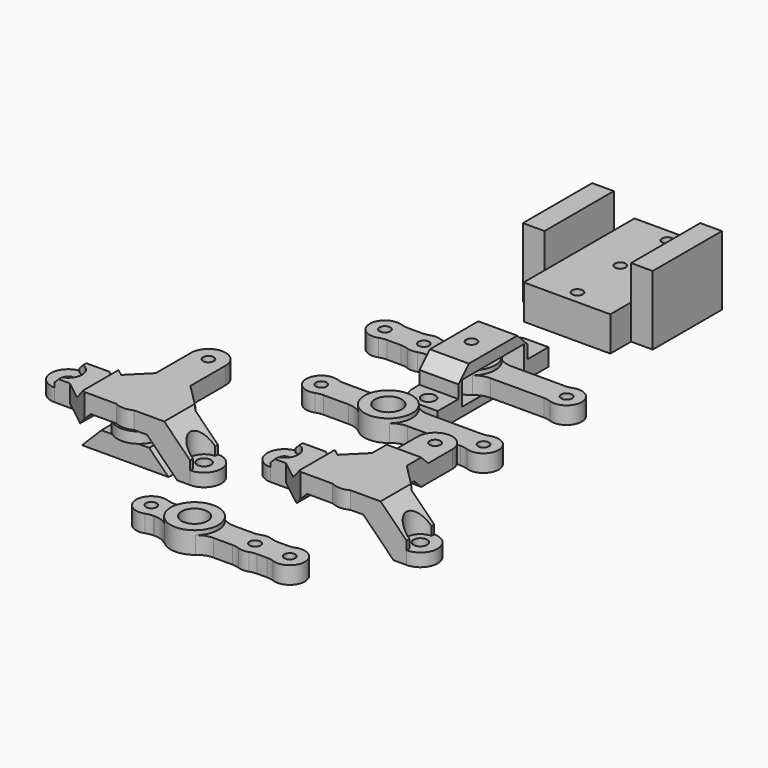
from build123d import *

# Parameters (mm, degrees)
BOX014_W                  = 10
BOX014_H                  = 10
BOX014_DEPTH              = 2.5
CYLINDER011_R             = 5
CYLINDER011_DEPTH         = 2.5
BOX015_W                  = 20
BOX015_H                  = 8
BOX015_DEPTH              = 4.5
CHAMFER001_SIZE           = 4.49
CYLINDER050_R             = 1.25
CYLINDER050_DEPTH         = 4
CYLINDER047_R             = 1.25
CYLINDER047_DEPTH         = 4
CYLINDER048_R             = 1.25
CYLINDER048_DEPTH         = 4
CYLINDER046_R             = 3
CYLINDER046_DEPTH         = 5
BOX040_W                  = 32
BOX040_H                  = 6
BOX040_DEPTH              = 4
CYLINDER045_R             = 3.5
CYLINDER045_DEPTH         = 4
CYLINDER044_R             = 3.5
CYLINDER044_DEPTH         = 4
CYLINDER043_R             = 5.5
CYLINDER043_DEPTH         = 5
CYLINDER049_R             = 3.5
CYLINDER049_DEPTH         = 4
FILLET_R                  = 5
CYLINDER054_R             = 1.25
CYLINDER054_DEPTH         = 10
CYLINDER055_R             = 1.25
CYLINDER055_DEPTH         = 10
CYLINDER053_R             = 1.25
CYLINDER053_DEPTH         = 10
BOX047_W                  = 32
BOX047_H                  = 20
BOX047_DEPTH              = 8
BOX046_W                  = 20
BOX046_H                  = 5
BOX046_DEPTH              = 16
BOX045_W                  = 20
BOX045_H                  = 5
BOX045_DEPTH              = 16
FUSION040_PLACEMENT_ANGLE = 90
BOX044_W                  = 6
BOX044_H                  = 6
BOX044_DEPTH              = 4
CYLINDER042_R             = 1.25
CYLINDER042_DEPTH         = 4
CYLINDER033_R             = 1.25
CYLINDER033_DEPTH         = 4
CYLINDER034_R             = 1.25
CYLINDER034_DEPTH         = 4
CYLINDER032_R             = 3
CYLINDER032_DEPTH         = 5
BOX038_W                  = 33
BOX038_H                  = 6
BOX038_DEPTH              = 4
CYLINDER031_R             = 3.5
CYLINDER031_DEPTH         = 4
CYLINDER030_R             = 3.5
CYLINDER030_DEPTH         = 4
CYLINDER029_R             = 5.5
CYLINDER029_DEPTH         = 5
CYLINDER041_R             = 3.5
CYLINDER041_DEPTH         = 4
FILLET003_R               = 5
CYLINDER039_R             = 1.25
CYLINDER039_DEPTH         = 4
CYLINDER040_R             = 1.25
CYLINDER040_DEPTH         = 4
CYLINDER038_R             = 3.1
CYLINDER038_DEPTH         = 5
BOX039_W                  = 38
BOX039_H                  = 6
BOX039_DEPTH              = 4
CYLINDER037_R             = 3.5
CYLINDER037_DEPTH         = 4
CYLINDER036_R             = 3.5
CYLINDER036_DEPTH         = 4
CYLINDER035_R             = 5.5
CYLINDER035_DEPTH         = 5
FILLET004_R               = 5
CYLINDER060_R             = 1.25
CYLINDER060_DEPTH         = 3
CYLINDER057_R             = 1.25
CYLINDER057_DEPTH         = 4
CYLINDER056_R             = 4
CYLINDER056_DEPTH         = 4
BOX_W                     = 10
BOX_H                     = 10
BOX_DEPTH                 = 10
CYLINDER_R                = 1.6
CYLINDER_DEPTH            = 4
CYLINDER027_R             = 4
CYLINDER027_DEPTH         = 4
BOX037_W                  = 10
BOX037_H                  = 10
BOX037_DEPTH              = 10
CYLINDER022_R             = 1.6
CYLINDER022_DEPTH         = 10
BOX036_W                  = 6
BOX036_H                  = 8
BOX036_DEPTH              = 1
CYLINDER026_R             = 3.2
CYLINDER026_DEPTH         = 10
BOX035_W                  = 10
BOX035_H                  = 15
BOX035_DEPTH              = 10
CYLINDER025_R             = 1.6
CYLINDER025_DEPTH         = 10
CYLINDER021_R             = 1.6
CYLINDER021_DEPTH         = 10
BOX033_W                  = 10
BOX033_H                  = 10
BOX033_DEPTH              = 8
BOX033_PLACEMENT_ANGLE    = 45
CYLINDER024_R             = 3.2
CYLINDER024_DEPTH         = 10
BOX032_W                  = 10
BOX032_H                  = 8
BOX032_DEPTH              = 11
CHAMFER012_SIZE           = 7
CHAMFER013_SIZE           = 6
CYLINDER020_R             = 3.2
CYLINDER020_DEPTH         = 2
BOX021_W                  = 8
BOX021_H                  = 27
BOX021_DEPTH              = 4
BOX029_W                  = 10
BOX029_H                  = 10
BOX029_DEPTH              = 4
BOX028_W                  = 14
BOX028_H                  = 14
BOX028_DEPTH              = 4
BOX028_PLACEMENT_ANGLE    = 45
BOX027_W                  = 10
BOX027_H                  = 10
BOX027_DEPTH              = 4
BOX026_W                  = 10
BOX026_H                  = 10
BOX026_DEPTH              = 4
BOX024_W                  = 15
BOX024_H                  = 8
BOX024_DEPTH              = 4
BOX024_PLACEMENT_ANGLE    = 38
BOX025_W                  = 9
BOX025_H                  = 8
BOX025_DEPTH              = 4
BOX023_W                  = 6
BOX023_H                  = 8
BOX023_DEPTH              = 4
CYLINDER019_R             = 4
CYLINDER019_DEPTH         = 4
CYLINDER018_R             = 4.5
CYLINDER018_DEPTH         = 4
BOX022_W                  = 11
BOX022_H                  = 8
BOX022_DEPTH              = 4
CHAMFER014_SIZE           = 2
CYLINDER016_R             = 4
CYLINDER016_DEPTH         = 3
CHAMFER016_SIZE           = 3.99
BOX034_W                  = 10
BOX034_H                  = 11
BOX034_DEPTH              = 10
CHAMFER015_SIZE           = 3.99
CYLINDER017_R             = 4
CYLINDER017_DEPTH         = 3
CHAMFER017_SIZE           = 1
CHAMFER018_SIZE           = 0.99
CHAMFER019_SIZE           = 1
CYLINDER058_R             = 2
CYLINDER058_DEPTH         = 3
CYLINDER064_R             = 1.25
CYLINDER064_DEPTH         = 3
CYLINDER063_R             = 2
CYLINDER063_DEPTH         = 3
CYLINDER062_R             = 1.25
CYLINDER062_DEPTH         = 4
BOX048_W                  = 8
BOX048_H                  = 11
BOX048_DEPTH              = 2
CYLINDER061_R             = 4
CYLINDER061_DEPTH         = 4
BOX049_W                  = 8
BOX049_H                  = 13
BOX049_DEPTH              = 2
CYLINDER028_R             = 1.6
CYLINDER028_DEPTH         = 4
CHAMFER021_SIZE           = 1.99
CHAMFER022_SIZE           = 1.99
CYLINDER052_R             = 1.6
CYLINDER052_DEPTH         = 10
BOX043_W                  = 9
BOX043_H                  = 6
BOX043_DEPTH              = 4
FILLET002_R               = 4
FILLET001_R               = 4
CYLINDER051_R             = 1.25
CYLINDER051_DEPTH         = 12
BOX042_W                  = 12
BOX042_H                  = 12
BOX042_DEPTH              = 5.5
BOX041_W                  = 9
BOX041_H                  = 20
BOX041_DEPTH              = 10
CHAMFER_SIZE              = 3
CHAMFER020_SIZE           = 3


with BuildPart() as cube014:
    # Box014 → Box014 (new body)
    with BuildSketch(Plane(origin=(-20, 0, 5.5), x_dir=(1, 0, 0), z_dir=(0, 0, 1))):
        with Locations((5, 5)):
            Rectangle(BOX014_W, BOX014_H)
    extrude(amount=BOX014_DEPTH)


with BuildPart() as fusion006:
    # Cylinder011 → Cylinder011 (new body)
    with BuildSketch(Plane(origin=(-15, 0, 5.5), x_dir=(1, 0, 0), z_dir=(0, 0, 1))):
        Circle(CYLINDER011_R)
    extrude(amount=CYLINDER011_DEPTH)

    # Fusion006: union Cube014
    add(cube014.part)


with BuildPart() as axle:
    # Box015 → Box015 (new body)
    with BuildSketch(Plane(origin=(-25, -4, 1), x_dir=(1, 0, 0), z_dir=(0, 0, 1))):
        with Locations((10, 4)):
            Rectangle(BOX015_W, BOX015_H)
    extrude(amount=BOX015_DEPTH)

    # Chamfer001
    chamfer001_edges = [axle.edges().sort_by_distance(p)[0] for p in [
        (-25, 0, 5.5),
        (-5, 0, 5.5),
    ]]
    chamfer(chamfer001_edges, length=CHAMFER001_SIZE)

    # Fusion008: union Fusion006
    add(fusion006.part)


with BuildPart() as cylinder050:
    # Cylinder050 → Cylinder050 (new body)
    with BuildSketch(Plane(origin=(27, 0, 0), x_dir=(1, 0, 0), z_dir=(0, 0, 1))):
        Circle(CYLINDER050_R)
    extrude(amount=CYLINDER050_DEPTH)


with BuildPart() as cylinder047:
    # Cylinder047 → Cylinder047 (new body)
    with BuildSketch(Plane(origin=(3, 0, 0), x_dir=(1, 0, 0), z_dir=(0, 0, 1))):
        Circle(CYLINDER047_R)
    extrude(amount=CYLINDER047_DEPTH)


with BuildPart() as cylinder048:
    # Cylinder048 → Cylinder048 (new body)
    with BuildSketch(Plane(origin=(35, 0, 0), x_dir=(1, 0, 0), z_dir=(0, 0, 1))):
        Circle(CYLINDER048_R)
    extrude(amount=CYLINDER048_DEPTH)


with BuildPart() as fusion035:
    # Cylinder046 → Cylinder046 (new body)
    with BuildSketch(Plane(origin=(13, 0, 0), x_dir=(1, 0, 0), z_dir=(0, 0, 1))):
        Circle(CYLINDER046_R)
    extrude(amount=CYLINDER046_DEPTH)

    # Fusion035: union Cylinder047, Cylinder048
    add(cylinder047.part)
    add(cylinder048.part)


with BuildPart() as box040:
    # Box040 → Box040 (new body)
    with BuildSketch(Plane(origin=(3, -3, 0), x_dir=(1, 0, 0), z_dir=(0, 0, 1))):
        with Locations((16, 3)):
            Rectangle(BOX040_W, BOX040_H)
    extrude(amount=BOX040_DEPTH)


with BuildPart() as cylinder045:
    # Cylinder045 → Cylinder045 (new body)
    with BuildSketch(Plane(origin=(3, 0, 0), x_dir=(1, 0, 0), z_dir=(0, 0, 1))):
        Circle(CYLINDER045_R)
    extrude(amount=CYLINDER045_DEPTH)


with BuildPart() as cylinder044:
    # Cylinder044 → Cylinder044 (new body)
    with BuildSketch(Plane(origin=(35, 0, 0), x_dir=(1, 0, 0), z_dir=(0, 0, 1))):
        Circle(CYLINDER044_R)
    extrude(amount=CYLINDER044_DEPTH)


with BuildPart() as cut027:
    # Cylinder043 → Cylinder043 (new body)
    with BuildSketch(Plane(origin=(13, 0, 0), x_dir=(1, 0, 0), z_dir=(0, 0, 1))):
        Circle(CYLINDER043_R)
    extrude(amount=CYLINDER043_DEPTH)

    # Fusion034: union Box040, Cylinder045, Cylinder044
    add(box040.part)
    add(cylinder045.part)
    add(cylinder044.part)

    # Cut027: cut Fusion035
    add(fusion035.part, mode=Mode.SUBTRACT)


with BuildPart() as fillet_body:
    # Cylinder049 → Cylinder049 (new body)
    with BuildSketch(Plane(origin=(27, 0, 0), x_dir=(1, 0, 0), z_dir=(0, 0, 1))):
        Circle(CYLINDER049_R)
    extrude(amount=CYLINDER049_DEPTH)

    # Fusion036: union Cut027
    add(cut027.part)

    # Cut028: cut Cylinder050
    add(cylinder050.part, mode=Mode.SUBTRACT)


with BuildPart() as fillet_body_1:
    # Cut028 placement: moved
    add(fillet_body.part.moved(Location((0, -19, 0))))

    # Fillet
    fillet_edges = [fillet_body_1.edges().sort_by_distance(p)[0] for p in [
        (8.390228, -22, 2),
        (8.390228, -16, 2),
        (17.609772, -16, 2),
        (17.609772, -22, 2),
        (4.802776, -22, 2),
        (4.802776, -16, 2),
        (25.197224, -16, 2),
        (25.197224, -22, 2),
        (28.802776, -22, 2),
        (33.197224, -22, 2),
        (33.197224, -16, 2),
        (28.802776, -16, 2),
    ]]
    fillet(fillet_edges, radius=FILLET_R)


with BuildPart() as cylinder054:
    # Cylinder054 → Cylinder054 (new body)
    with BuildSketch(Plane(origin=(13.5, -13, -3), x_dir=(1, 0, 0), z_dir=(0, 0, 1))):
        Circle(CYLINDER054_R)
    extrude(amount=CYLINDER054_DEPTH)


with BuildPart() as cylinder055:
    # Cylinder055 → Cylinder055 (new body)
    with BuildSketch(Plane(origin=(13.5, 13, -3), x_dir=(1, 0, 0), z_dir=(0, 0, 1))):
        Circle(CYLINDER055_R)
    extrude(amount=CYLINDER055_DEPTH)


with BuildPart() as fusion041:
    # Cylinder053 → Cylinder053 (new body)
    with BuildSketch(Plane(origin=(13, 0, -3), x_dir=(1, 0, 0), z_dir=(0, 0, 1))):
        Circle(CYLINDER053_R)
    extrude(amount=CYLINDER053_DEPTH)

    # Fusion041: union Cylinder054, Cylinder055
    add(cylinder054.part)
    add(cylinder055.part)


with BuildPart() as box047:
    # Box047 → Box047 (new body)
    with BuildSketch(Plane(origin=(-16, 19.5, 0), x_dir=(1, 0, 0), z_dir=(0, 0, 1))):
        with Locations((16, 10)):
            Rectangle(BOX047_W, BOX047_H)
    extrude(amount=BOX047_DEPTH)


with BuildPart() as box046:
    # Box046 → Box046 (new body)
    with BuildSketch(Plane(origin=(-10, 39.5, 0), x_dir=(1, 0, 0), z_dir=(0, 0, 1))):
        with Locations((10, 2.5)):
            Rectangle(BOX046_W, BOX046_H)
    extrude(amount=BOX046_DEPTH)


with BuildPart() as steering_lever_holder_holes_tool:
    # Box045 → Box045 (new body)
    with BuildSketch(Plane(origin=(-10, 14.5, 0), x_dir=(1, 0, 0), z_dir=(0, 0, 1))):
        with Locations((10, 2.5)):
            Rectangle(BOX045_W, BOX045_H)
    extrude(amount=BOX045_DEPTH)

    # Fusion040: union Box047, Box046
    add(box047.part)
    add(box046.part)


with BuildPart() as steering_lever_holder_holes_tool_1:
    # Fusion040 placement: moved
    add(steering_lever_holder_holes_tool.part.moved(Location((43, 0, -2))).rotate(Axis((43, 0, -2), (0, 0, 1)), FUSION040_PLACEMENT_ANGLE))

    # Cut034: cut Fusion041
    add(fusion041.part, mode=Mode.SUBTRACT)


with BuildPart() as steering_lever_holder_holes_tool_2:
    # Cut034 placement: moved
    add(steering_lever_holder_holes_tool_1.part.moved(Location((0, 104, 0))))


with BuildPart() as box044:
    # Box044 → Box044 (new body)
    with BuildSketch(Plane(origin=(-5.5, -3, 0), x_dir=(1, 0, 0), z_dir=(0, 0, 1))):
        with Locations((3, 3)):
            Rectangle(BOX044_W, BOX044_H)
    extrude(amount=BOX044_DEPTH)


with BuildPart() as cylinder042:
    # Cylinder042 → Cylinder042 (new body)
    with BuildSketch(Plane(origin=(-7, 0, 0), x_dir=(1, 0, 0), z_dir=(0, 0, 1))):
        Circle(CYLINDER042_R)
    extrude(amount=CYLINDER042_DEPTH)


with BuildPart() as cylinder033:
    # Cylinder033 → Cylinder033 (new body)
    with BuildSketch(Plane(origin=(2, 0, 0), x_dir=(1, 0, 0), z_dir=(0, 0, 1))):
        Circle(CYLINDER033_R)
    extrude(amount=CYLINDER033_DEPTH)


with BuildPart() as cylinder034:
    # Cylinder034 → Cylinder034 (new body)
    with BuildSketch(Plane(origin=(35, 0, 0), x_dir=(1, 0, 0), z_dir=(0, 0, 1))):
        Circle(CYLINDER034_R)
    extrude(amount=CYLINDER034_DEPTH)


with BuildPart() as fusion031:
    # Cylinder032 → Cylinder032 (new body)
    with BuildSketch(Plane(origin=(13, 0, 0), x_dir=(1, 0, 0), z_dir=(0, 0, 1))):
        Circle(CYLINDER032_R)
    extrude(amount=CYLINDER032_DEPTH)

    # Fusion031: union Cylinder033, Cylinder034
    add(cylinder033.part)
    add(cylinder034.part)


with BuildPart() as box038:
    # Box038 → Box038 (new body)
    with BuildSketch(Plane(origin=(2, -3, 0), x_dir=(1, 0, 0), z_dir=(0, 0, 1))):
        with Locations((16.5, 3)):
            Rectangle(BOX038_W, BOX038_H)
    extrude(amount=BOX038_DEPTH)


with BuildPart() as cylinder031:
    # Cylinder031 → Cylinder031 (new body)
    with BuildSketch(Plane(origin=(2, 0, 0), x_dir=(1, 0, 0), z_dir=(0, 0, 1))):
        Circle(CYLINDER031_R)
    extrude(amount=CYLINDER031_DEPTH)


with BuildPart() as cylinder030:
    # Cylinder030 → Cylinder030 (new body)
    with BuildSketch(Plane(origin=(35, 0, 0), x_dir=(1, 0, 0), z_dir=(0, 0, 1))):
        Circle(CYLINDER030_R)
    extrude(amount=CYLINDER030_DEPTH)


with BuildPart() as cut025:
    # Cylinder029 → Cylinder029 (new body)
    with BuildSketch(Plane(origin=(13, 0, 0), x_dir=(1, 0, 0), z_dir=(0, 0, 1))):
        Circle(CYLINDER029_R)
    extrude(amount=CYLINDER029_DEPTH)

    # Fusion030: union Box038, Cylinder031, Cylinder030
    add(box038.part)
    add(cylinder031.part)
    add(cylinder030.part)

    # Cut025: cut Fusion031
    add(fusion031.part, mode=Mode.SUBTRACT)


with BuildPart() as steering_lever_front:
    # Cylinder041 → Cylinder041 (new body)
    with BuildSketch(Plane(origin=(-7, 0, 0), x_dir=(1, 0, 0), z_dir=(0, 0, 1))):
        Circle(CYLINDER041_R)
    extrude(amount=CYLINDER041_DEPTH)

    # Fusion037: union Cut025
    add(cut025.part)

    # Cut029: cut Cylinder042
    add(cylinder042.part, mode=Mode.SUBTRACT)

    # Fusion039: union Box044
    add(box044.part)

    # Fillet003
    fillet003_edges = [steering_lever_front.edges().sort_by_distance(p)[0] for p in [
        (-5.197224, -3, 2),
        (-5.197224, 3, 2),
        (0.197224, -3, 2),
        (0.197224, 3, 2),
        (3.802776, -3, 2),
        (3.802776, 3, 2),
        (8.390228, -3, 2),
        (8.390228, 3, 2),
        (17.609772, 3, 2),
        (17.609772, -3, 2),
        (33.197224, -3, 2),
        (33.197224, 3, 2),
    ]]
    fillet(fillet003_edges, radius=FILLET003_R)


with BuildPart() as steering_lever_front_1:
    # Fillet003 placement: moved
    add(steering_lever_front.part.moved(Location((0, 61, 0))))


with BuildPart() as cylinder039:
    # Cylinder039 → Cylinder039 (new body)
    with BuildSketch(Plane(origin=(-2.5, 0, 0), x_dir=(1, 0, 0), z_dir=(0, 0, 1))):
        Circle(CYLINDER039_R)
    extrude(amount=CYLINDER039_DEPTH)


with BuildPart() as cylinder040:
    # Cylinder040 → Cylinder040 (new body)
    with BuildSketch(Plane(origin=(35, 0, 0), x_dir=(1, 0, 0), z_dir=(0, 0, 1))):
        Circle(CYLINDER040_R)
    extrude(amount=CYLINDER040_DEPTH)


with BuildPart() as fusion033:
    # Cylinder038 → Cylinder038 (new body)
    with BuildSketch(Plane(origin=(13, 0, 0), x_dir=(1, 0, 0), z_dir=(0, 0, 1))):
        Circle(CYLINDER038_R)
    extrude(amount=CYLINDER038_DEPTH)

    # Fusion033: union Cylinder039, Cylinder040
    add(cylinder039.part)
    add(cylinder040.part)


with BuildPart() as box039:
    # Box039 → Box039 (new body)
    with BuildSketch(Plane(origin=(-3, -3, 0), x_dir=(1, 0, 0), z_dir=(0, 0, 1))):
        with Locations((19, 3)):
            Rectangle(BOX039_W, BOX039_H)
    extrude(amount=BOX039_DEPTH)


with BuildPart() as cylinder037:
    # Cylinder037 → Cylinder037 (new body)
    with BuildSketch(Plane(origin=(-2.5, 0, 0), x_dir=(1, 0, 0), z_dir=(0, 0, 1))):
        Circle(CYLINDER037_R)
    extrude(amount=CYLINDER037_DEPTH)


with BuildPart() as cylinder036:
    # Cylinder036 → Cylinder036 (new body)
    with BuildSketch(Plane(origin=(35, 0, 0), x_dir=(1, 0, 0), z_dir=(0, 0, 1))):
        Circle(CYLINDER036_R)
    extrude(amount=CYLINDER036_DEPTH)


with BuildPart() as steering_lever_rear:
    # Cylinder035 → Cylinder035 (new body)
    with BuildSketch(Plane(origin=(13, 0, 0), x_dir=(1, 0, 0), z_dir=(0, 0, 1))):
        Circle(CYLINDER035_R)
    extrude(amount=CYLINDER035_DEPTH)

    # Fusion032: union Box039, Cylinder037, Cylinder036
    add(box039.part)
    add(cylinder037.part)
    add(cylinder036.part)

    # Cut026: cut Fusion033
    add(fusion033.part, mode=Mode.SUBTRACT)


with BuildPart() as steering_lever_rear_1:
    # Cut026 placement: moved
    add(steering_lever_rear.part.moved(Location((0, 25, 0))))

    # Fillet004
    fillet004_edges = [steering_lever_rear_1.edges().sort_by_distance(p)[0] for p in [
        (17.609772, 22, 2),
        (8.390228, 22, 2),
        (8.390228, 28, 2),
        (17.609772, 28, 2),
        (33.197224, 22, 2),
        (-0.697224, 22, 2),
        (-0.697224, 28, 2),
        (33.197224, 28, 2),
    ]]
    fillet(fillet004_edges, radius=FILLET004_R)


with BuildPart() as steering_lever_rear_2:
    # Fillet004 placement: moved
    add(steering_lever_rear_1.part.moved(Location((0, 12, 0))))


with BuildPart() as cylinder060:
    # Cylinder060 → Cylinder060 (new body)
    with BuildSketch(Plane(origin=(-37, 7, 3), x_dir=(1, 0, 0), z_dir=(0, 0, 1))):
        Circle(CYLINDER060_R)
    extrude(amount=CYLINDER060_DEPTH)


with BuildPart() as cylinder057:
    # Cylinder057 → Cylinder057 (new body)
    with BuildSketch(Plane(origin=(-15, 20, 8), x_dir=(1, 0, 0), z_dir=(0, 0, 1))):
        Circle(CYLINDER057_R)
    extrude(amount=CYLINDER057_DEPTH)


with BuildPart() as cylinder056:
    # Cylinder056 → Cylinder056 (new body)
    with BuildSketch(Plane(origin=(-15, 20, 8), x_dir=(1, 0, 0), z_dir=(0, 0, 1))):
        Circle(CYLINDER056_R)
    extrude(amount=CYLINDER056_DEPTH)


with BuildPart() as cube:
    # Box → Box (new body)
    with BuildSketch(Plane(origin=(-20, 20, 2), x_dir=(1, 0, 0), z_dir=(0, 0, 1))):
        with Locations((5, 5)):
            Rectangle(BOX_W, BOX_H)
    extrude(amount=BOX_DEPTH)


with BuildPart() as cylinder:
    # Cylinder → Cylinder (new body)
    with BuildSketch(Plane(origin=(-15, 23, 8), x_dir=(1, 0, 0), z_dir=(0, 0, 1))):
        Circle(CYLINDER_R)
    extrude(amount=CYLINDER_DEPTH)


with BuildPart() as cylinder027:
    # Cylinder027 → Cylinder027 (new body)
    with BuildSketch(Plane(origin=(-15, 23, 8), x_dir=(1, 0, 0), z_dir=(0, 0, 1))):
        Circle(CYLINDER027_R)
    extrude(amount=CYLINDER027_DEPTH)


with BuildPart() as cube037:
    # Box037 → Box037 (new body)
    with BuildSketch(Plane(origin=(-19, 23, 3), x_dir=(1, 0, 0), z_dir=(0, 0, 1))):
        with Locations((5, 5)):
            Rectangle(BOX037_W, BOX037_H)
    extrude(amount=BOX037_DEPTH)


with BuildPart() as cylinder022:
    # Cylinder022 → Cylinder022 (new body)
    with BuildSketch(Plane(origin=(-37, 7, 2), x_dir=(1, 0, 0), z_dir=(0, 0, 1))):
        Circle(CYLINDER022_R)
    extrude(amount=CYLINDER022_DEPTH)


with BuildPart() as cube036:
    # Box036 → Box036 (new body)
    with BuildSketch(Plane(origin=(-37, 3, 3), x_dir=(1, 0, 0), z_dir=(0, 0, 1))):
        with Locations((3, 4)):
            Rectangle(BOX036_W, BOX036_H)
    extrude(amount=BOX036_DEPTH)


with BuildPart() as cylinder026:
    # Cylinder026 → Cylinder026 (new body)
    with BuildSketch(Plane(origin=(-37, 7, 6), x_dir=(1, 0, 0), z_dir=(0, 0, 1))):
        Circle(CYLINDER026_R)
    extrude(amount=CYLINDER026_DEPTH)


with BuildPart() as cube035:
    # Box035 → Box035 (new body)
    with BuildSketch(Plane(origin=(-39, -2, 8), x_dir=(1, 0, 0), z_dir=(0, 0, 1))):
        with Locations((5, 7.5)):
            Rectangle(BOX035_W, BOX035_H)
    extrude(amount=BOX035_DEPTH)


with BuildPart() as cylinder025:
    # Cylinder025 → Cylinder025 (new body)
    with BuildSketch(Plane(origin=(-15, 27, 4), x_dir=(1, 0, 0), z_dir=(0, 0, 1))):
        Circle(CYLINDER025_R)
    extrude(amount=CYLINDER025_DEPTH)


with BuildPart() as fusion023:
    # Cylinder021 → Cylinder021 (new body)
    with BuildSketch(Plane.XY):
        Circle(CYLINDER021_R)
    extrude(amount=CYLINDER021_DEPTH)

    # Fusion023: union Cylinder025
    add(cylinder025.part)


with BuildPart() as cube033:
    # Box033 → Box033 (new body)
    with BuildSketch(Plane.XY):
        with Locations((5, 5)):
            Rectangle(BOX033_W, BOX033_H)
    extrude(amount=BOX033_DEPTH)


with BuildPart() as cube033_1:
    # Box033 placement: moved
    add(cube033.part.moved(Location((-10.2, -1, 0))).rotate(Axis((-10.2, -1, 0), (0, 0, 1)), BOX033_PLACEMENT_ANGLE))


with BuildPart() as cylinder024:
    # Cylinder024 → Cylinder024 (new body)
    with BuildSketch(Plane.XY.offset(4)):
        Circle(CYLINDER024_R)
    extrude(amount=CYLINDER024_DEPTH)


with BuildPart() as chamfer013:
    # Box032 → Box032 (new body)
    with BuildSketch(Plane(origin=(-10, -4, 1), x_dir=(1, 0, 0), z_dir=(0, 0, 1))):
        with Locations((5, 4)):
            Rectangle(BOX032_W, BOX032_H)
    extrude(amount=BOX032_DEPTH)

    # Chamfer012
    chamfer012_edges = [chamfer013.edges().sort_by_distance(p)[0] for p in [
        (-10, 0, 1),
    ]]
    chamfer(chamfer012_edges, length=CHAMFER012_SIZE)

    # Chamfer013
    chamfer013_edges = [chamfer013.edges().sort_by_distance(p)[0] for p in [
        (0, 0, 12),
    ]]
    chamfer(chamfer013_edges, length=CHAMFER013_SIZE)


with BuildPart() as cylinder020:
    # Cylinder020 → Cylinder020 (new body)
    with BuildSketch(Plane(origin=(-15, 0, 8), x_dir=(1, 0, 0), z_dir=(0, 0, 1))):
        Circle(CYLINDER020_R)
    extrude(amount=CYLINDER020_DEPTH)


with BuildPart() as cube021:
    # Box021 → Box021 (new body)
    with BuildSketch(Plane(origin=(-19, 0, 8), x_dir=(1, 0, 0), z_dir=(0, 0, 1))):
        with Locations((4, 13.5)):
            Rectangle(BOX021_W, BOX021_H)
    extrude(amount=BOX021_DEPTH)


with BuildPart() as cube029:
    # Box029 → Box029 (new body)
    with BuildSketch(Plane(origin=(-20, -14, 8), x_dir=(1, 0, 0), z_dir=(0, 0, 1))):
        with Locations((5, 5)):
            Rectangle(BOX029_W, BOX029_H)
    extrude(amount=BOX029_DEPTH)


with BuildPart() as cut013:
    # Box028 → Box028 (new body)
    with BuildSketch(Plane.XY):
        with Locations((7, 7)):
            Rectangle(BOX028_W, BOX028_H)
    extrude(amount=BOX028_DEPTH)


with BuildPart() as cut013_1:
    # Box028 placement: moved
    add(cut013.part.moved(Location((-15, -6, 8))).rotate(Axis((-15, -6, 8), (0, 0, 1)), BOX028_PLACEMENT_ANGLE))

    # Cut013: cut Cube029
    add(cube029.part, mode=Mode.SUBTRACT)


with BuildPart() as cube027:
    # Box027 → Box027 (new body)
    with BuildSketch(Plane(origin=(-35, 11, 8), x_dir=(1, 0, 0), z_dir=(0, 0, 1))):
        with Locations((5, 5)):
            Rectangle(BOX027_W, BOX027_H)
    extrude(amount=BOX027_DEPTH)


with BuildPart() as cube026:
    # Box026 → Box026 (new body)
    with BuildSketch(Plane(origin=(-30, -14, 8), x_dir=(1, 0, 0), z_dir=(0, 0, 1))):
        with Locations((5, 5)):
            Rectangle(BOX026_W, BOX026_H)
    extrude(amount=BOX026_DEPTH)


with BuildPart() as fusion016:
    # Fusion016 base: copy of Cube026
    add(cube026.part)

    # Fusion016: union Cube027
    add(cube027.part)


with BuildPart() as cube024:
    # Box024 → Box024 (new body)
    with BuildSketch(Plane.XY):
        with Locations((7.5, 4)):
            Rectangle(BOX024_W, BOX024_H)
    extrude(amount=BOX024_DEPTH)


with BuildPart() as cube024_1:
    # Box024 placement: moved
    add(cube024.part.moved(Location((-36, 5, 8))).rotate(Axis((-36, 5, 8), (0, 0, -1)), BOX024_PLACEMENT_ANGLE))


with BuildPart() as cube025:
    # Box025 → Box025 (new body)
    with BuildSketch(Plane(origin=(-24, -4, 8), x_dir=(1, 0, 0), z_dir=(0, 0, 1))):
        with Locations((4.5, 4)):
            Rectangle(BOX025_W, BOX025_H)
    extrude(amount=BOX025_DEPTH)


with BuildPart() as cube023:
    # Box023 → Box023 (new body)
    with BuildSketch(Plane(origin=(-37, 3, 8), x_dir=(1, 0, 0), z_dir=(0, 0, 1))):
        with Locations((3, 4)):
            Rectangle(BOX023_W, BOX023_H)
    extrude(amount=BOX023_DEPTH)


with BuildPart() as cut012:
    # Fusion017 base: copy of Cube023
    add(cube023.part)

    # Fusion017: union Cube024, Cube025
    add(cube024_1.part)
    add(cube025.part)

    # Cut012: cut Fusion016
    add(fusion016.part, mode=Mode.SUBTRACT)


with BuildPart() as cylinder019:
    # Cylinder019 → Cylinder019 (new body)
    with BuildSketch(Plane(origin=(-15, 27, 8), x_dir=(1, 0, 0), z_dir=(0, 0, 1))):
        Circle(CYLINDER019_R)
    extrude(amount=CYLINDER019_DEPTH)


with BuildPart() as cylinder018:
    # Cylinder018 → Cylinder018 (new body)
    with BuildSketch(Plane(origin=(-15, 0, 8), x_dir=(1, 0, 0), z_dir=(0, 0, 1))):
        Circle(CYLINDER018_R)
    extrude(amount=CYLINDER018_DEPTH)


with BuildPart() as cut016:
    # Box022 → Box022 (new body)
    with BuildSketch(Plane(origin=(-15, -4, 8), x_dir=(1, 0, 0), z_dir=(0, 0, 1))):
        with Locations((5.5, 4)):
            Rectangle(BOX022_W, BOX022_H)
    extrude(amount=BOX022_DEPTH)

    # Fusion018: union Cube021, Cut013, Cut012, Cylinder019, Cylinder018
    add(cube021.part)
    add(cut013_1.part)
    add(cut012.part)
    add(cylinder019.part)
    add(cylinder018.part)

    # Cut014: cut Cylinder020
    add(cylinder020.part, mode=Mode.SUBTRACT)

    # Chamfer014
    chamfer014_edges = [cut016.edges().sort_by_distance(p)[0] for p in [
        (-4, 0, 12),
    ]]
    chamfer(chamfer014_edges, length=CHAMFER014_SIZE)

    # Fusion020: union Chamfer013
    add(chamfer013.part)

    # Cut015: cut Cylinder024
    add(cylinder024.part, mode=Mode.SUBTRACT)

    # Cut016: cut Cube033
    add(cube033_1.part, mode=Mode.SUBTRACT)


with BuildPart() as chamfer016:
    # Cylinder016 → Cylinder016 (new body)
    with BuildSketch(Plane.XY.offset(1)):
        Circle(CYLINDER016_R)
    extrude(amount=CYLINDER016_DEPTH)

    # Fusion022: union Cut016
    add(cut016.part)

    # Cut017: cut Fusion023
    add(fusion023.part, mode=Mode.SUBTRACT)

    # Cut020: cut Cube035
    add(cube035.part, mode=Mode.SUBTRACT)

    # Chamfer016
    chamfer016_edges = [chamfer016.edges().sort_by_distance(p)[0] for p in [
        (-29, 4.607073, 12),
    ]]
    chamfer(chamfer016_edges, length=CHAMFER016_SIZE)


with BuildPart() as cube034:
    # Box034 → Box034 (new body)
    with BuildSketch(Plane(origin=(-23, -4, 0), x_dir=(1, 0, 0), z_dir=(0, 0, 1))):
        with Locations((5, 5.5)):
            Rectangle(BOX034_W, BOX034_H)
    extrude(amount=BOX034_DEPTH)


with BuildPart() as fusion024:
    # Fusion024 base: copy of Cube026
    add(cube026.part)

    # Fusion024: union Cube027
    add(cube027.part)


with BuildPart() as fusion026:
    # Fusion025 base: copy of Cube023
    add(cube023.part)

    # Fusion025: union Cube024, Cube025
    add(cube024_1.part)
    add(cube025.part)

    # Cut018: cut Fusion024
    add(fusion024.part, mode=Mode.SUBTRACT)


with BuildPart() as fusion026_1:
    # Cut018 placement: moved
    add(fusion026.part.moved(Location((0, 0, -4))))

    # Cut019: cut Cube034
    add(cube034.part, mode=Mode.SUBTRACT)

    # Chamfer015
    chamfer015_edges = [fusion026_1.edges().sort_by_distance(p)[0] for p in [
        (-23, 0.497716, 4),
    ]]
    chamfer(chamfer015_edges, length=CHAMFER015_SIZE)

    # Fusion026: union Chamfer016
    add(chamfer016.part)


with BuildPart() as cut023:
    # Cylinder017 → Cylinder017 (new body)
    with BuildSketch(Plane(origin=(-37, 7, 3), x_dir=(1, 0, 0), z_dir=(0, 0, 1))):
        Circle(CYLINDER017_R)
    extrude(amount=CYLINDER017_DEPTH)

    # Fusion027: union Fusion026
    add(fusion026_1.part)

    # Chamfer017
    chamfer017_edges = [cut023.edges().sort_by_distance(p)[0] for p in [
        (-37, 7, 8),
    ]]
    chamfer(chamfer017_edges, length=CHAMFER017_SIZE)

    # Cut021: cut Cylinder026
    add(cylinder026.part, mode=Mode.SUBTRACT)

    # Fusion028: union Cube036
    add(cube036.part)

    # Chamfer018
    chamfer018_edges = [cut023.edges().sort_by_distance(p)[0] for p in [
        (-31, 7, 3),
    ]]
    chamfer(chamfer018_edges, length=CHAMFER018_SIZE)

    # Cut022: cut Cylinder022
    add(cylinder022.part, mode=Mode.SUBTRACT)

    # Chamfer019
    chamfer019_edges = [cut023.edges().sort_by_distance(p)[0] for p in [
        (-28.837748, 9.556381, 4),
        (-24.995, 6.554097, 5.995),
    ]]
    chamfer(chamfer019_edges, length=CHAMFER019_SIZE)

    # Cut023: cut Cube037
    add(cube037.part, mode=Mode.SUBTRACT)


with BuildPart() as cut036:
    # Fusion base: copy of Cut023
    add(cut023.part)

    # Fusion: union Cylinder027
    add(cylinder027.part)

    # Cut: cut Cylinder
    add(cylinder.part, mode=Mode.SUBTRACT)

    # Cut035: cut Cube
    add(cube.part, mode=Mode.SUBTRACT)

    # Fusion042: union Cylinder056
    add(cylinder056.part)

    # Cut036: cut Cylinder057
    add(cylinder057.part, mode=Mode.SUBTRACT)


with BuildPart() as steering_arm_rear:
    # Cylinder058 → Cylinder058 (new body)
    with BuildSketch(Plane(origin=(-37, 7, 3), x_dir=(1, 0, 0), z_dir=(0, 0, 1))):
        Circle(CYLINDER058_R)
    extrude(amount=CYLINDER058_DEPTH)

    # Fusion043: union Cut036
    add(cut036.part)

    # Cut037: cut Cylinder060
    add(cylinder060.part, mode=Mode.SUBTRACT)


with BuildPart() as cylinder064:
    # Cylinder064 → Cylinder064 (new body)
    with BuildSketch(Plane(origin=(13, 7, 3), x_dir=(1, 0, 0), z_dir=(0, 0, 1))):
        Circle(CYLINDER064_R)
    extrude(amount=CYLINDER064_DEPTH)


with BuildPart() as cylinder063:
    # Cylinder063 → Cylinder063 (new body)
    with BuildSketch(Plane(origin=(13, 7, 3), x_dir=(1, 0, 0), z_dir=(0, 0, 1))):
        Circle(CYLINDER063_R)
    extrude(amount=CYLINDER063_DEPTH)


with BuildPart() as cylinder062:
    # Cylinder062 → Cylinder062 (new body)
    with BuildSketch(Plane(origin=(35, 23, 6), x_dir=(1, 0, 0), z_dir=(0, 0, 1))):
        Circle(CYLINDER062_R)
    extrude(amount=CYLINDER062_DEPTH)


with BuildPart() as cube040:
    # Box048 → Box048 (new body)
    with BuildSketch(Plane(origin=(31, 12, 6), x_dir=(1, 0, 0), z_dir=(0, 0, 1))):
        with Locations((4, 5.5)):
            Rectangle(BOX048_W, BOX048_H)
    extrude(amount=BOX048_DEPTH)


with BuildPart() as cylinder061:
    # Cylinder061 → Cylinder061 (new body)
    with BuildSketch(Plane(origin=(35, 23, 6), x_dir=(1, 0, 0), z_dir=(0, 0, 1))):
        Circle(CYLINDER061_R)
    extrude(amount=CYLINDER061_DEPTH)


with BuildPart() as cube041:
    # Box049 → Box049 (new body)
    with BuildSketch(Plane(origin=(31, 14, 10), x_dir=(1, 0, 0), z_dir=(0, 0, 1))):
        with Locations((4, 6.5)):
            Rectangle(BOX049_W, BOX049_H)
    extrude(amount=BOX049_DEPTH)


with BuildPart() as cylinder028:
    # Cylinder028 → Cylinder028 (new body)
    with BuildSketch(Plane(origin=(-15, 23, 8), x_dir=(1, 0, 0), z_dir=(0, 0, 1))):
        Circle(CYLINDER028_R)
    extrude(amount=CYLINDER028_DEPTH)


with BuildPart() as steering_arm_front:
    # Fusion029 base: copy of Cut023
    add(cut023.part)

    # Fusion029: union Cylinder027
    add(cylinder027.part)

    # Cut024: cut Cylinder028
    add(cylinder028.part, mode=Mode.SUBTRACT)


with BuildPart() as steering_arm_front_1:
    # Cut024 placement: moved
    add(steering_arm_front.part.moved(Location((50, 0, 0))))

    # Cut038: cut Cube041
    add(cube041.part, mode=Mode.SUBTRACT)

    # Fusion044: union Cube040, Cylinder061
    add(cube040.part)
    add(cylinder061.part)

    # Cut039: cut Cylinder062
    add(cylinder062.part, mode=Mode.SUBTRACT)

    # Chamfer021
    chamfer021_edges = [steering_arm_front_1.edges().sort_by_distance(p)[0] for p in [
        (35, 12, 6),
    ]]
    chamfer(chamfer021_edges, length=CHAMFER021_SIZE)

    # Chamfer022
    chamfer022_edges = [steering_arm_front_1.edges().sort_by_distance(p)[0] for p in [
        (35, 14, 10),
    ]]
    chamfer(chamfer022_edges, length=CHAMFER022_SIZE)

    # Fusion045: union Cylinder063
    add(cylinder063.part)

    # Cut040: cut Cylinder064
    add(cylinder064.part, mode=Mode.SUBTRACT)


with BuildPart() as cylinder052:
    # Cylinder052 → Cylinder052 (new body)
    with BuildSketch(Plane(origin=(13.5, 13, -3), x_dir=(1, 0, 0), z_dir=(0, 0, 1))):
        Circle(CYLINDER052_R)
    extrude(amount=CYLINDER052_DEPTH)


with BuildPart() as cube002:
    # Box043 → Box043 (new body)
    with BuildSketch(Plane(origin=(9, 10, -2), x_dir=(1, 0, 0), z_dir=(0, 0, 1))):
        with Locations((4.5, 3)):
            Rectangle(BOX043_W, BOX043_H)
    extrude(amount=BOX043_DEPTH)


with BuildPart() as fillet002:
    # Cut033 base: copy of Cube002
    add(cube002.part)

    # Cut033: cut Cylinder052
    add(cylinder052.part, mode=Mode.SUBTRACT)

    # Fillet002
    fillet002_edges = [fillet002.edges().sort_by_distance(p)[0] for p in [
        (9, 16, 0),
    ]]
    fillet(fillet002_edges, radius=FILLET002_R)


with BuildPart() as fillet001:
    # Cut032 base: copy of Cube002
    add(cube002.part)

    # Cut032: cut Cylinder052
    add(cylinder052.part, mode=Mode.SUBTRACT)

    # Fillet001
    fillet001_edges = [fillet001.edges().sort_by_distance(p)[0] for p in [
        (9, 16, 0),
    ]]
    fillet(fillet001_edges, radius=FILLET001_R)


with BuildPart() as part_mirroring:
    # Part__Mirroring: instance of Fillet001
    add(fillet001.part.mirror(Plane(origin=(0, 0, 0), x_dir=(1, 0, 0), z_dir=(0, 1, 0))))


with BuildPart() as cylinder051:
    # Cylinder051 → Cylinder051 (new body)
    with BuildSketch(Plane(origin=(12, 0, -2), x_dir=(1, 0, 0), z_dir=(0, 0, 1))):
        Circle(CYLINDER051_R)
    extrude(amount=CYLINDER051_DEPTH)


with BuildPart() as cube039:
    # Box042 → Box042 (new body)
    with BuildSketch(Plane(origin=(7, -6, 0), x_dir=(1, 0, 0), z_dir=(0, 0, 1))):
        with Locations((6, 6)):
            Rectangle(BOX042_W, BOX042_H)
    extrude(amount=BOX042_DEPTH)


with BuildPart() as steering_lever_holder_front:
    # Box041 → Box041 (new body)
    with BuildSketch(Plane(origin=(7, -10, -2), x_dir=(1, 0, 0), z_dir=(0, 0, 1))):
        with Locations((4.5, 10)):
            Rectangle(BOX041_W, BOX041_H)
    extrude(amount=BOX041_DEPTH)

    # Cut030: cut Cube039
    add(cube039.part, mode=Mode.SUBTRACT)

    # Chamfer
    chamfer_edges = [steering_lever_holder_front.edges().sort_by_distance(p)[0] for p in [
        (7, -6, 2.75),
        (7, 6, 2.75),
        (16, -6, 2.75),
        (16, 6, 2.75),
    ]]
    chamfer(chamfer_edges, length=CHAMFER_SIZE)


with BuildPart() as steering_lever_holder_front_1:
    # Chamfer placement: moved
    add(steering_lever_holder_front.part.moved(Location((1, 0, 0))))

    # Chamfer020
    chamfer020_edges = [steering_lever_holder_front_1.edges().sort_by_distance(p)[0] for p in [
        (12.5, -10, 8),
        (12.5, 10, 8),
    ]]
    chamfer(chamfer020_edges, length=CHAMFER020_SIZE)

    # Cut031: cut Cylinder051
    add(cylinder051.part, mode=Mode.SUBTRACT)


with BuildPart() as steering_lever_holder_front_2:
    # Cut031 placement: moved
    add(steering_lever_holder_front_1.part.moved(Location((1, 0, 0))))

    # Fusion046: union Fillet002, Part__Mirroring
    add(fillet002.part)
    add(part_mirroring.part)


with BuildPart() as steering_lever_holder_front_3:
    # Fusion046 placement: moved
    add(steering_lever_holder_front_2.part.moved(Location((0, 61, 0))))


solid = Compound([axle.part, fillet_body_1.part, steering_lever_holder_holes_tool_2.part, steering_lever_front_1.part, steering_lever_rear_2.part, steering_arm_rear.part, steering_arm_front_1.part, steering_lever_holder_front_3.part])
